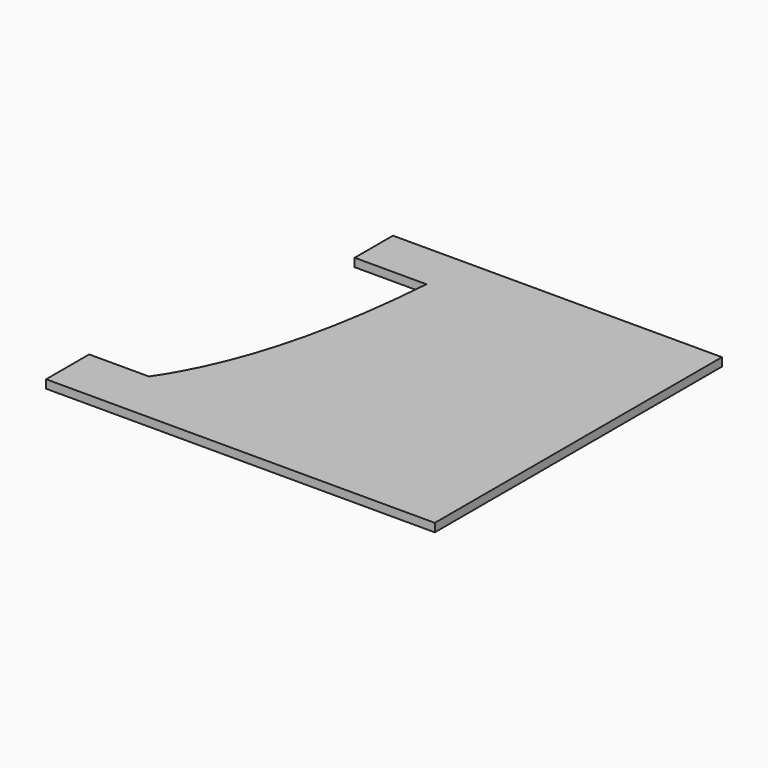
from build123d import *

# Parameters (mm, degrees)
PAD_DEPTH = 14


with BuildPart() as part:
    # Sketch → Pad (new body)
    with BuildSketch(Plane.XY):
        with BuildLine():
            Line((0, 0), (650, 0))
            Line((650, 0), (650, 600))
            Line((650, 600), (100, 600))
            Line((100, 600), (100, 520))
            Line((100, 520), (220, 520))
            add(Edge.make_bspline(
                [(220, 520), (198.506592, 233.641052), (100, 90)],
                knots=[0, 0, 0, 1, 1, 1], degree=2))
            Line((100, 90), (0, 90))
            Line((0, 90), (0, 0))
        make_face()
    extrude(amount=PAD_DEPTH)


solid = part.part
